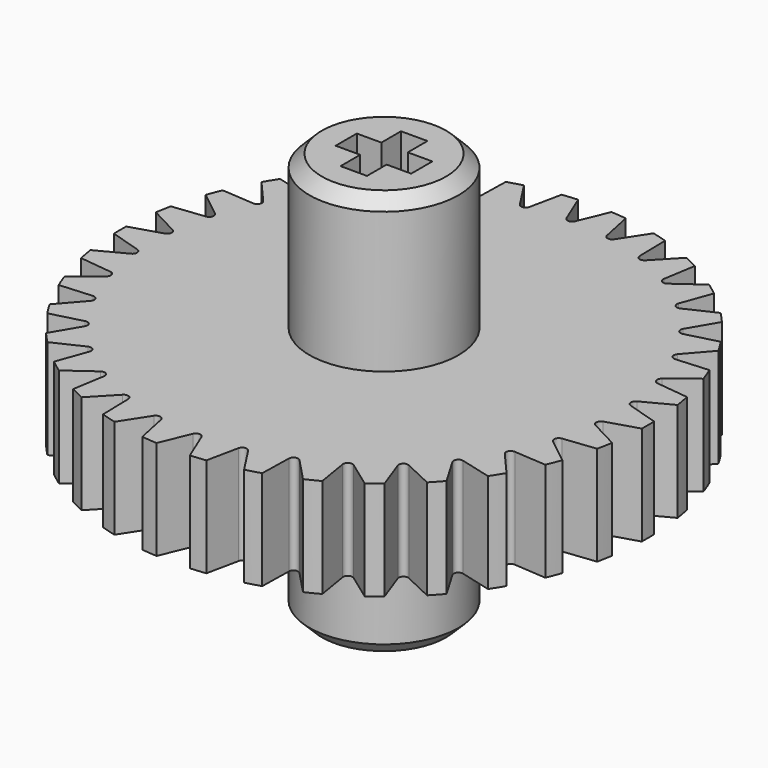
from build123d import *

# Parameters (mm, degrees)
F0_R      = 16.8606013276
F1_DEPTH  = 3.175
F3_DEPTH  = 6.35
F4_COUNT  = 34
F4_ANGLE  = 349.4117647059
F5_R      = 4.7625
F6_DEPTH  = 12.954
F7_SIZE   = 0.79375
F8_W      = 1.6891
F8_H      = 1.56845
F8_W_2    = 1.56845
F8_H_2    = 1.6891
F9_DEPTH  = 7.9375
F10_W     = 1.56845
F10_H     = 1.6891
F10_W_2   = 1.6891
F10_H_2   = 1.56845
F11_DEPTH = 7.9375


with BuildPart() as f1:
    # F0 (on Top) → F1 (new body, symmetric)
    with BuildSketch(Plane.XY):
        Circle(F0_R)
    extrude(amount=F1_DEPTH, both=True)

    # F2 (on face) → F3 (cut, through all)
    with BuildSketch(Plane.XY.offset(3.175)):
        with BuildLine():
            Line((0.2750522147, 14.9107071253), (1.0655839766, 16.8268953737))
            ThreePointArc((1.0655839766, 16.8268953737), (0, 16.8606013276), (-1.0655839766, 16.8268953737))
            Line((-1.0655839766, 16.8268953737), (-0.2750522147, 14.9107071253))
            ThreePointArc((-0.2750522147, 14.9107071253), (0, 14.7266410845), (0.2750522147, 14.9107071253))
        make_face()
    f3 = extrude(amount=-F3_DEPTH, mode=Mode.SUBTRACT)

    # F4: F3 ×34 about axis
    f4_axis = Axis((0, 0, 0), (0, 0, 1))
    for i in range(1, F4_COUNT):
        add(f3.rotate(f4_axis, i * F4_ANGLE / (F4_COUNT - 1)), mode=Mode.SUBTRACT)

    # F5 (on Top) → F6 (join, symmetric)
    with BuildSketch(Plane.XY):
        Circle(F5_R)
    extrude(amount=F6_DEPTH, both=True)

    # F7
    f7_edges = [f1.edges().sort_by_distance(p)[0] for p in [
        (-4.7625, 0, 12.954),
        (-4.7625, 0, -12.954),
    ]]
    chamfer(f7_edges, length=F7_SIZE)

    # F8 (on face) → F9 (cut)
    with BuildSketch(Plane.XY.offset(12.954)):
        with Locations((0, 1.628775)):
            Rectangle(F8_W, F8_H)
        with Locations((1.628775, 0)):
            Rectangle(F8_W_2, F8_H_2)
        Rectangle(F8_W, F8_H_2)
        with Locations((-1.628775, 0)):
            Rectangle(F8_W_2, F8_H_2)
        with Locations((0, -1.628775)):
            Rectangle(F8_W, F8_H)
    extrude(amount=-F9_DEPTH, mode=Mode.SUBTRACT)

    # F10 (on face) → F11 (cut)
    with BuildSketch(Plane(origin=(0, 0, -12.954), x_dir=(1, 0, 0), z_dir=(0, 0, -1))):
        with Locations((1.628775, 0)):
            Rectangle(F10_W, F10_H)
        Rectangle(F10_W_2, F10_H)
        with Locations((0, 1.628775)):
            Rectangle(F10_W_2, F10_H_2)
        with Locations((-1.628775, 0)):
            Rectangle(F10_W, F10_H)
        with Locations((0, -1.628775)):
            Rectangle(F10_W_2, F10_H_2)
    extrude(amount=-F11_DEPTH, mode=Mode.SUBTRACT)


solid = f1.part
